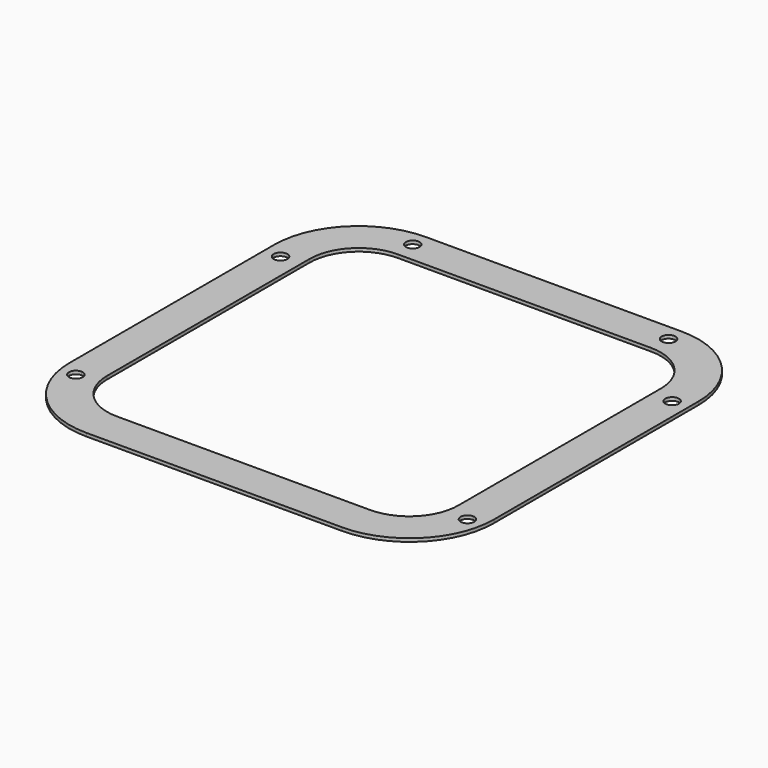
from build123d import *

# Parameters (mm, degrees)
F0_R     = 2.1
F1_DEPTH = 1


with BuildPart() as f1:
    # F0 (on Top) → F1 (new body)
    with BuildSketch(Plane.XY):
        with BuildLine():
            ThreePointArc((65, 39.2), (57.4433549546, 57.4433549546), (39.2, 65))
            Line((39.2, 65), (-39.2, 65))
            ThreePointArc((-39.2, 65), (-57.4433549546, 57.4433549546), (-65, 39.2))
            Line((-65, 39.2), (-65, -39.2))
            ThreePointArc((-65, -39.2), (-57.4433549546, -57.4433549546), (-39.2, -65))
            Line((-39.2, -65), (39.2, -65))
            ThreePointArc((39.2, -65), (57.4433549546, -57.4433549546), (65, -39.2))
            Line((65, -39.2), (65, 39.2))
        make_face()
        with BuildLine():
            ThreePointArc((-57.9, -43.029787234), (-61.4849242405, -44.5147114745), (-60, -40.929787234))
            ThreePointArc((-60, -40.929787234), (-58.5150757595, -41.5448629936), (-57.9, -43.029787234))
        make_face(mode=Mode.SUBTRACT)
        with BuildLine():
            ThreePointArc((62.1, -43.029787234), (58.5150757595, -44.5147114745), (60, -40.929787234))
            ThreePointArc((60, -40.929787234), (61.4849242405, -41.5448629936), (62.1, -43.029787234))
        make_face(mode=Mode.SUBTRACT)
        with BuildLine():
            ThreePointArc((-57.9, 35.370212766), (-58.5150757595, 33.8852885255), (-60, 33.270212766))
            ThreePointArc((-60, 33.270212766), (-61.4849242405, 36.8551370064), (-57.9, 35.370212766))
        make_face(mode=Mode.SUBTRACT)
        with Locations((-39.2, 60)):
            Circle(F0_R, mode=Mode.SUBTRACT)
        with BuildLine():
            ThreePointArc((-55, 39.2), (-50.3722871427, 50.3722871427), (-39.2, 55))
            Line((-39.2, 55), (39.2, 55))
            ThreePointArc((39.2, 55), (50.3722871427, 50.3722871427), (55, 39.2))
            Line((55, 39.2), (55, -39.2))
            ThreePointArc((55, -39.2), (50.3722871427, -50.3722871427), (39.2, -55))
            Line((39.2, -55), (-39.2, -55))
            ThreePointArc((-39.2, -55), (-50.3722871427, -50.3722871427), (-55, -39.2))
            Line((-55, -39.2), (-55, 39.2))
        make_face(mode=Mode.SUBTRACT)
        with BuildLine():
            ThreePointArc((62.1, 35.370212766), (61.4849242405, 33.8852885255), (60, 33.270212766))
            ThreePointArc((60, 33.270212766), (58.5150757595, 36.8551370064), (62.1, 35.370212766))
        make_face(mode=Mode.SUBTRACT)
        with BuildLine():
            ThreePointArc((41.3, 60), (39.2, 57.9), (37.1, 60))
            ThreePointArc((37.1, 60), (39.2, 62.1), (41.3, 60))
        make_face(mode=Mode.SUBTRACT)
        with BuildLine():
            Line((39.2, 55), (-39.2, 55))
            ThreePointArc((-39.2, 55), (-50.3722871427, 50.3722871427), (-55, 39.2))
            Line((-55, 39.2), (-55, -39.2))
            ThreePointArc((-55, -39.2), (-50.3722871427, -50.3722871427), (-39.2, -55))
            Line((-39.2, -55), (39.2, -55))
            ThreePointArc((39.2, -55), (50.3722871427, -50.3722871427), (55, -39.2))
            Line((55, -39.2), (55, 39.2))
            ThreePointArc((55, 39.2), (50.3722871427, 50.3722871427), (39.2, 55))
        make_face()
        with BuildLine():
            ThreePointArc((-53.8, 38.8), (-49.4066017178, 49.4066017178), (-38.8, 53.8))
            Line((-38.8, 53.8), (38.8, 53.8))
            ThreePointArc((38.8, 53.8), (49.4066017178, 49.4066017178), (53.8, 38.8))
            Line((53.8, 38.8), (53.8, -38.8))
            ThreePointArc((53.8, -38.8), (49.4066017178, -49.4066017178), (38.8, -53.8))
            Line((38.8, -53.8), (-38.8, -53.8))
            ThreePointArc((-38.8, -53.8), (-49.4066017178, -49.4066017178), (-53.8, -38.8))
            Line((-53.8, -38.8), (-53.8, 38.8))
        make_face(mode=Mode.SUBTRACT)
    extrude(amount=F1_DEPTH)


solid = f1.part
